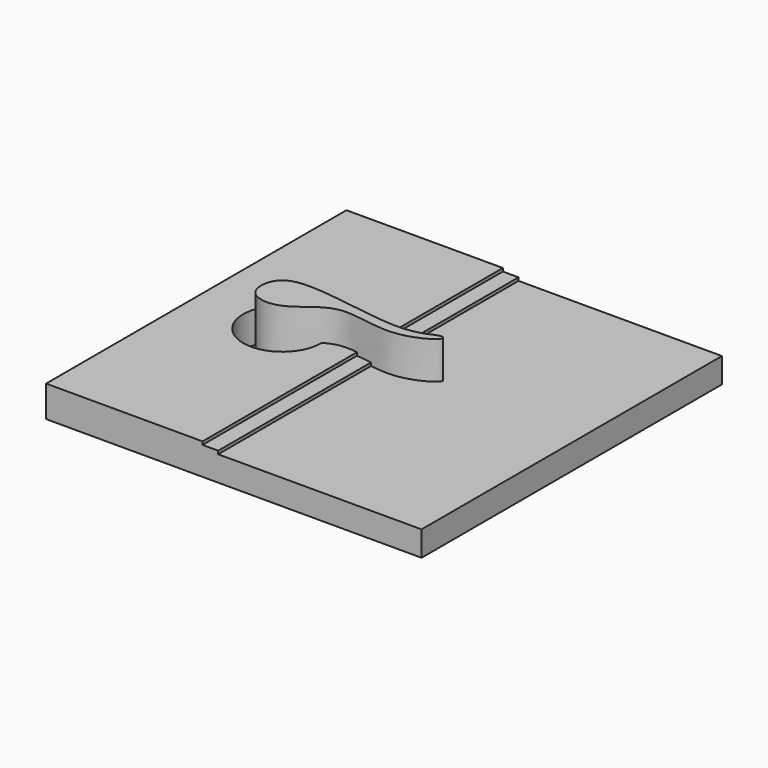
from build123d import *

# Parameters (mm, degrees)
F0_W     = 127
F0_H     = 304.8
F0_R     = 31.75
F1_DEPTH = 25.4
F0_W_2   = 12.7
F2_DEPTH = 22.86
F0_W_3   = 165.1
F3_DEPTH = 20.32
F5_DEPTH = 50.8


with BuildPart() as f1:
    # F0 (on Top) → F1 (new body)
    with BuildSketch(Plane.XY):
        with Locations((63.5, 152.4)):
            Rectangle(F0_W, F0_H)
        with Locations((69.85, 152.4)):
            Circle(F0_R, mode=Mode.SUBTRACT)
    extrude(amount=F1_DEPTH)

    # F0 (on Top) → F2 (join)
    with BuildSketch(Plane.XY):
        with Locations((133.35, 152.4)):
            Rectangle(F0_W_2, F0_H)
    extrude(amount=F2_DEPTH)

    # F0 (on Top) → F3 (join)
    with BuildSketch(Plane.XY):
        with Locations((222.25, 152.4)):
            Rectangle(F0_W_3, F0_H)
    extrude(amount=F3_DEPTH)

    # F4 (on Top) → F5 (join)
    with BuildSketch(Plane.XY):
        with BuildLine():
            add(Edge.make_bspline(
                [(53.3054508269, 156.5510332584), (54.5673139213, 162.6849676067), (66.6874764715, 179.3115033141), (156.5282681816, 155.1984335447), (180.236948719, 168.0378421995), (186.4963693466, 169.7186284129), (190.4635359255, 165.4384503306), (156.642950558, 146.0067452755), (108.7248038019, 166.6436288048), (83.2823579893, 133.7718637026), (54.3429459776, 137.327642133), (52.1597117612, 150.9815794563), (53.3054508269, 156.5510332584)],
                knots=[0, 0, 0, 0, 0.0885461377, 0.2776787166, 0.3788760939, 0.4230700911, 0.4536662931, 0.5648269876, 0.7054343529, 0.8245132968, 0.9196023962, 1, 1, 1, 1], degree=3))
        make_face()
    extrude(amount=F5_DEPTH)


solid = f1.part
